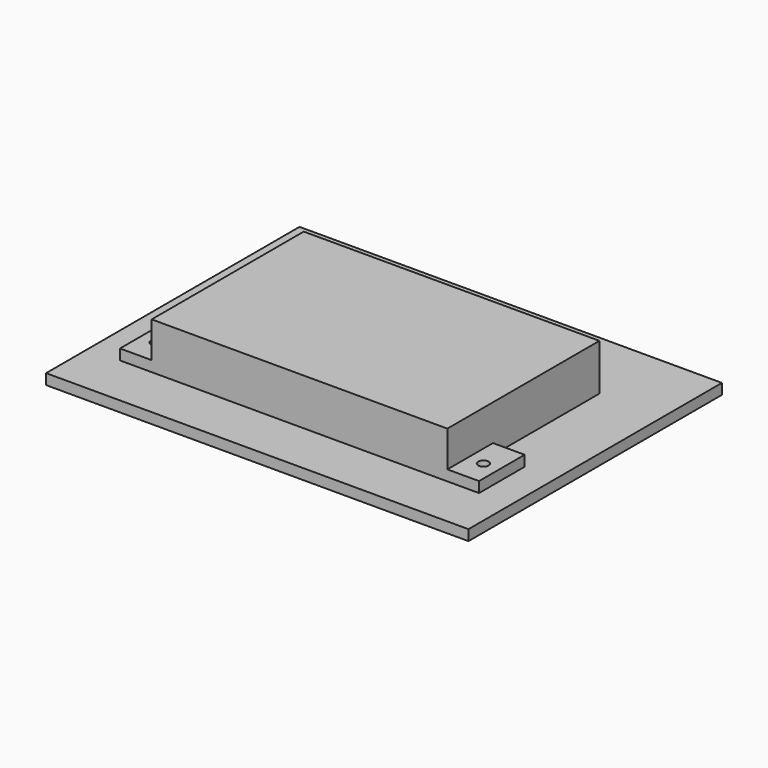
from build123d import *

# Parameters (mm, degrees)
CYLINDER001_R     = 5
CYLINDER001_DEPTH = 50
CYLINDER_R        = 5
CYLINDER_DEPTH    = 50
SKETCH_W          = 280
SKETCH_H          = 180
PAD_DEPTH         = 44
SKETCH001_W       = 30
SKETCH001_H       = 54
PAD001_DEPTH      = 10
SKETCH002_W       = 400
SKETCH002_H       = 300
PAD002_DEPTH      = 10


with BuildPart() as cylinder001:
    # Cylinder001 → Cylinder001 (new body)
    with BuildSketch(Plane(origin=(-155, -66, -30), x_dir=(1, 0, 0), z_dir=(0, 0, 1))):
        Circle(CYLINDER001_R)
    extrude(amount=CYLINDER001_DEPTH)


with BuildPart() as cylinder:
    # Cylinder → Cylinder (new body)
    with BuildSketch(Plane(origin=(155, -66, -25), x_dir=(1, 0, 0), z_dir=(0, 0, 1))):
        Circle(CYLINDER_R)
    extrude(amount=CYLINDER_DEPTH)


with BuildPart() as pad:
    # Sketch → Pad (new body)
    with BuildSketch(Plane.XY):
        Rectangle(SKETCH_W, SKETCH_H)
    extrude(amount=PAD_DEPTH)


with BuildPart() as fusion:
    # Sketch001 → Pad001 (new body)
    with BuildSketch(Plane.XY):
        with Locations((155, -63)):
            Rectangle(SKETCH001_W, SKETCH001_H)
        with Locations((-155, -63)):
            Rectangle(SKETCH001_W, SKETCH001_H)
    extrude(amount=PAD001_DEPTH)

    # Fusion: union Pad
    add(pad.part)


with BuildPart() as cut001:
    # Sketch002 → Pad002 (new body)
    with BuildSketch(Plane(origin=(0, 0, -10), x_dir=(1, 0, 0), z_dir=(0, 0, -1))):
        with Locations((0, -10)):
            Rectangle(SKETCH002_W, SKETCH002_H)
    extrude(amount=-PAD002_DEPTH)

    # Fusion001: union Fusion
    add(fusion.part)

    # Cut: cut Cylinder
    add(cylinder.part, mode=Mode.SUBTRACT)

    # Cut001: cut Cylinder001
    add(cylinder001.part, mode=Mode.SUBTRACT)


solid = cut001.part
